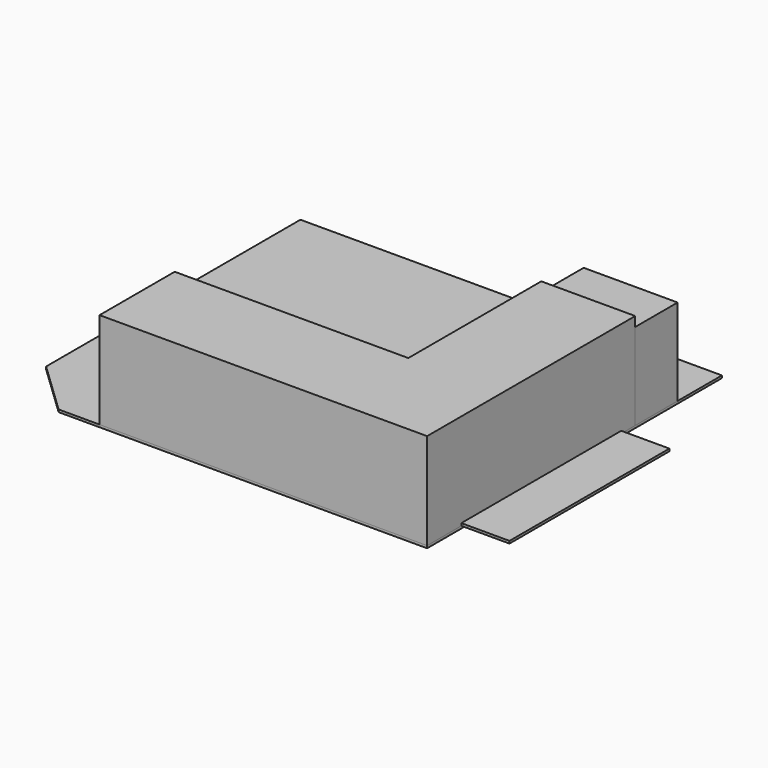
from build123d import *

# Parameters (mm, degrees)
F1_DEPTH = 25.4
F2_W     = 508
F2_H     = 2108.2
F3_DEPTH = 25.4
F4_W     = 1574.8
F4_H     = 990.6
F4_W_2   = 990.6
F4_H_2   = 2082.8
F5_DEPTH = 914.4
F7_DEPTH = 1016


with BuildPart() as f1:
    # F0 (on Top) → F1 (new body)
    with BuildSketch(Plane.XY):
        Polygon((0, -3886.2), (0, 0), (-4445, 0), (-4445, -3352.8), (-3886.2, -3886.2), align=None)
    extrude(amount=F1_DEPTH)


with BuildPart() as f3:
    # F2 (on face) → F3 (new body)
    with BuildSketch(Plane.XY.offset(25.4)):
        with Locations((254, -2381.25)):
            Rectangle(F2_W, F2_H)
    extrude(amount=F3_DEPTH)


with BuildPart() as f5:
    # F4 (on face) → F5 (new body)
    with BuildSketch(Plane.XY.offset(25.4)):
        with Locations((-2006.6, -3390.9)):
            Rectangle(F4_W, F4_H)
        with Locations((-495.3, -1625.6)):
            Rectangle(F4_W_2, F4_H_2)
    extrude(amount=F5_DEPTH)


with BuildPart() as f7:
    # F6 (on face) → F7 (new body)
    with BuildSketch(Plane.XY.offset(25.4)):
        Polygon((-3454.4, -2895.6), (-3454.4, -3886.2), (0, -3886.2), (0, -1143), (-990.6, -1143), (-990.6, -2895.6), align=None)
    extrude(amount=F7_DEPTH)


solid = Compound([f1.part, f3.part, f5.part, f7.part])
